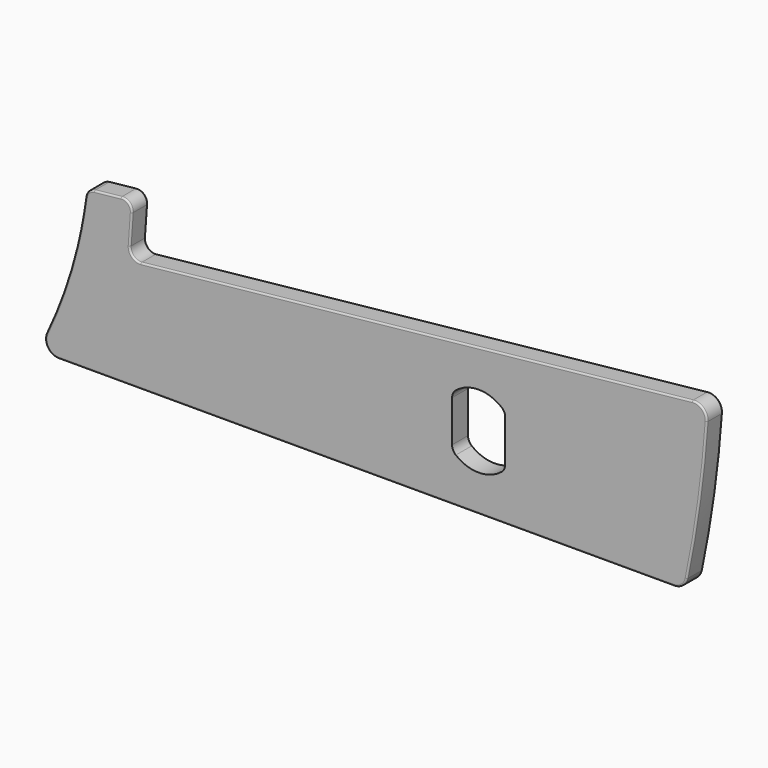
from build123d import *

# Parameters (mm, degrees)
F1_DEPTH = 6
F2_R     = 4
F4_DEPTH = 6
F6_DEPTH = 6.001
F7_R     = 3
F8_R     = 0.5


with BuildPart() as f1:
    # F0 (on Front) → F1 (new body)
    with BuildSketch(Plane.XZ):
        with BuildLine():
            ThreePointArc((12, 31.5), (6.98702, 15.373992), (0, 0))
            Line((0, 0), (195, 0))
            ThreePointArc((195, 0), (199.533116, 25.594396), (202, 51.469805))
            Line((202, 51.469805), (12, 31.5))
        make_face()
    extrude(amount=F1_DEPTH)

    # F2
    f2_edges = [f1.edges().sort_by_distance(p)[0] for p in [
        (0, -3, 0),
        (195, -3, 0),
        (202, -3, 51.469805),
    ]]
    fillet(f2_edges, radius=F2_R)

    # F3 (on Front) → F4 (join)
    with BuildSketch(Plane.XZ):
        with BuildLine():
            ThreePointArc((14.934146, 47.896524), (13.7202, 39.652965), (12, 31.5))
            Line((12, 31.5), (27.724132, 33.152673))
            Line((27.724132, 33.152673), (28.857453, 49.359922))
            Line((28.857453, 49.359922), (14.934146, 47.896524))
        make_face()
    extrude(amount=F4_DEPTH)

    # F5 (on face) → F6 (cut, through all)
    with BuildSketch(Plane.XZ.offset(6)):
        with BuildLine():
            Line((141, 14.450166), (141, 29.549834))
            ThreePointArc((141, 29.549834), (133, 33), (125, 29.549834))
            Line((125, 29.549834), (125, 14.450166))
            ThreePointArc((125, 14.450166), (133, 11), (141, 14.450166))
        make_face()
    extrude(amount=-F6_DEPTH, mode=Mode.SUBTRACT)

    # F7
    f7_edges = [f1.edges().sort_by_distance(p)[0] for p in [
        (14.934146, -3, 47.896524),
        (28.857453, -3, 49.359922),
        (27.724132, -3, 33.152673),
        (125, -3, 14.450166),
        (125, -3, 29.549834),
        (141, -3, 29.549834),
        (141, -3, 14.450166),
    ]]
    fillet(f7_edges, radius=F7_R)

    # F8
    f8_edges = [f1.edges().sort_by_distance(p)[0] for p in [
        (10.297784, -6, 25.178986),
        (10.297784, 0, 25.178986),
    ]]
    fillet(f8_edges, radius=F8_R)


solid = f1.part
